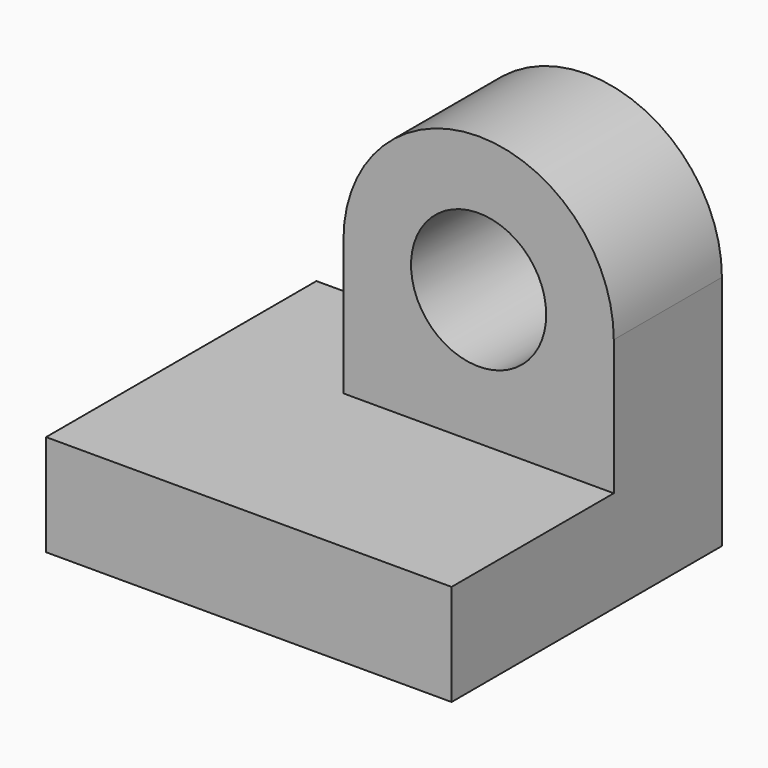
from build123d import *

# Parameters (mm, degrees)
F1_DEPTH = 50
F0_R     = 10
F2_DEPTH = 20


with BuildPart() as f1:
    # F0 (on Front) → F1 (new body)
    with BuildSketch(Plane.XZ):
        Polygon((0, 15), (0, 0), (60, 0), (60, 15), (20, 15), align=None)
    extrude(amount=F1_DEPTH)

    # F0 (on Front) → F2 (join)
    with BuildSketch(Plane.XZ):
        with BuildLine():
            Line((20, 15), (60, 15))
            Line((60, 15), (60, 35))
            ThreePointArc((60, 35), (40, 55), (20, 35))
            Line((20, 35), (20, 15))
        make_face()
        with Locations((40, 35)):
            Circle(F0_R, mode=Mode.SUBTRACT)
    extrude(amount=F2_DEPTH)


solid = f1.part
